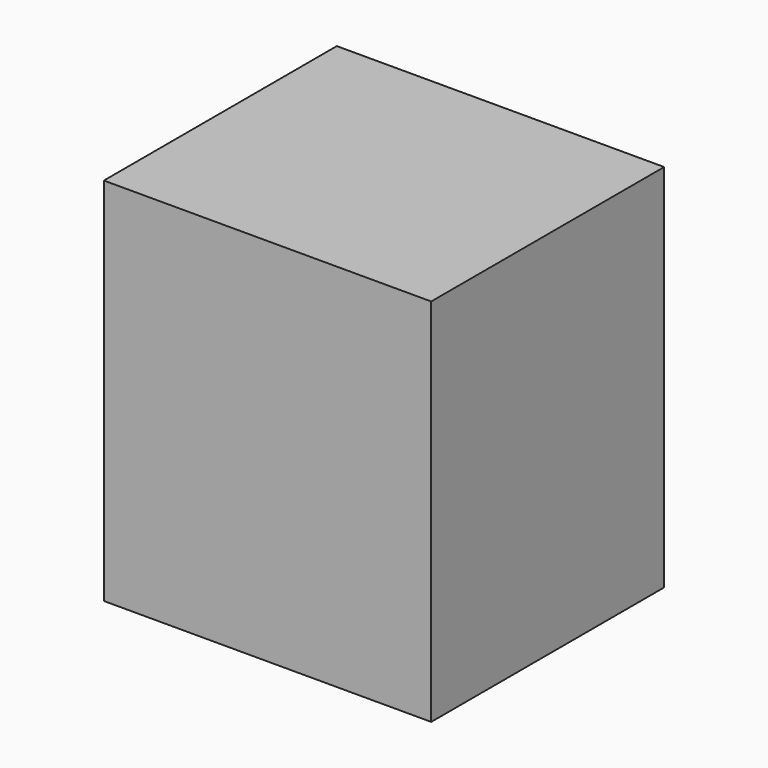
from build123d import *

# Parameters (mm, degrees)
F1_W      = 449.263618
F1_H      = 145.62732
F2_DEPTH  = 508
F2_FACE_W = 449.263618
F2_FACE_H = 508
F3_DEPTH  = 254
F3_FACE_W = 449.263618
F3_FACE_H = 399.62732
F4_DEPTH  = 127
F5_DEPTH  = 127


with BuildPart() as f2:
    # F1 (on face) → F2 (new body)
    with BuildSketch(Plane.XY):
        with Locations((-72.040029, -72.81366)):
            Rectangle(F1_W, F1_H)
    extrude(amount=F2_DEPTH)

    # F2_face (on face) → F3 (join)
    with BuildSketch(Plane(origin=(-72.040029, -145.62732, 254), x_dir=(1, 0, 0), z_dir=(0, -1, 0))):
        Rectangle(F2_FACE_W, F2_FACE_H)
    extrude(amount=F3_DEPTH)

    # F3_face (on face) → F4 (join)
    with BuildSketch(Plane(origin=(-72.040029, -199.81366, 0), x_dir=(1, 0, 0), z_dir=(0, 0, -1))):
        Rectangle(F3_FACE_W, F3_FACE_H)
    extrude(amount=-F4_DEPTH)

    # F3_face (on face) → F5 (join)
    with BuildSketch(Plane(origin=(-72.040029, -199.81366, 0), x_dir=(1, 0, 0), z_dir=(0, 0, -1))):
        Rectangle(F3_FACE_W, F3_FACE_H)
    extrude(amount=-F5_DEPTH)


solid = f2.part
